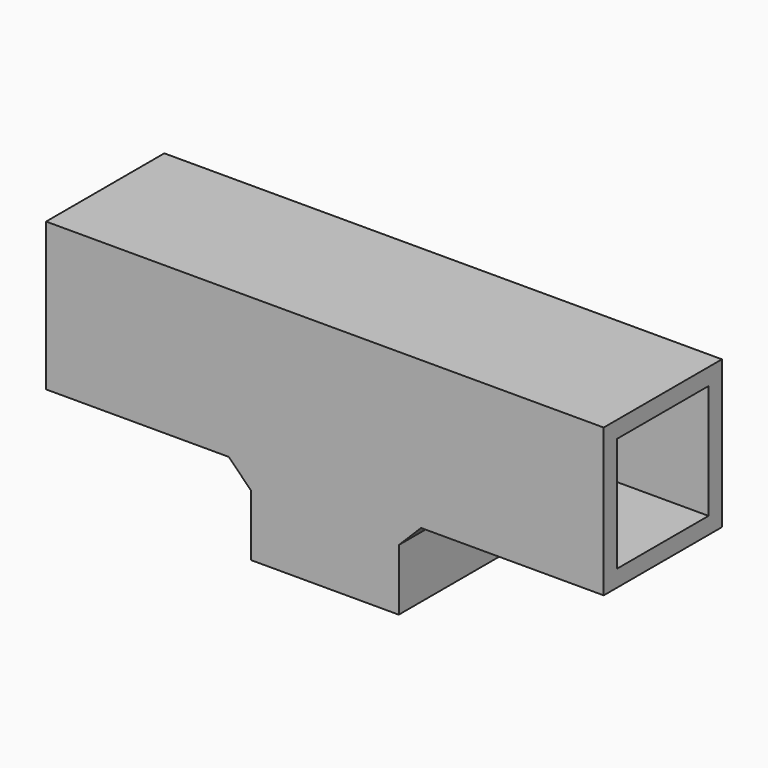
from build123d import *

# Parameters (mm, degrees)
SKETCH_W      = 26.5
SKETCH_H      = 26.5
SKETCH_W_2    = 20.5
SKETCH_H_2    = 20.5
PAD_DEPTH     = 15
SKETCH001_W   = 26.5
SKETCH001_H   = 26.5
SKETCH001_W_2 = 20.5
SKETCH001_H_2 = 20.5
PAD001_DEPTH  = 50
CHAMFER_SIZE  = 4


with BuildPart() as part:
    # Sketch → Pad (new body)
    with BuildSketch(Plane.XY):
        Rectangle(SKETCH_W, SKETCH_H)
        Rectangle(SKETCH_W_2, SKETCH_H_2, mode=Mode.SUBTRACT)
    extrude(amount=PAD_DEPTH)

    # Sketch001 → Pad001 (join, symmetric)
    with BuildSketch(Plane.YZ):
        with Locations((0, 28.25)):
            Rectangle(SKETCH001_W, SKETCH001_H)
        with Locations((0, 28.25)):
            Rectangle(SKETCH001_W_2, SKETCH001_H_2, mode=Mode.SUBTRACT)
    extrude(amount=PAD001_DEPTH, both=True)

    # Chamfer
    chamfer_edges = [part.edges().sort_by_distance(p)[0] for p in [
        (13.25, 0, 15),
        (-13.25, 0, 15),
    ]]
    chamfer(chamfer_edges, length=CHAMFER_SIZE)


solid = part.part
